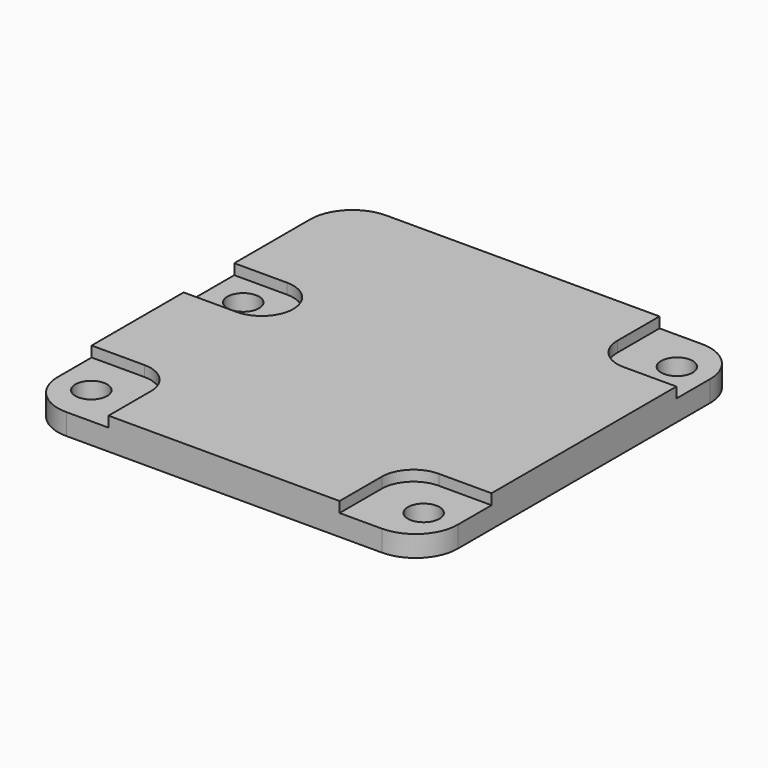
from build123d import *

# Parameters (mm, degrees)
F1_DEPTH = 3
F3_DEPTH = 1
F4_R     = 1.5
F5_DEPTH = 25


with BuildPart() as f1:
    # F0 (on Top) → F1 (new body)
    with BuildSketch(Plane.XY):
        with BuildLine():
            Line((14.9, 19), (-15, 19))
            ThreePointArc((-15, 19), (-17.828427, 17.828427), (-19, 15))
            Line((-19, 15), (-19, -14.9))
            ThreePointArc((-19, -14.9), (-17.828427, -17.728427), (-15, -18.9))
            Line((-15, -18.9), (14.9, -18.9))
            ThreePointArc((14.9, -18.9), (17.728427, -17.728427), (18.9, -14.9))
            Line((18.9, -14.9), (18.9, 15))
            ThreePointArc((18.9, 15), (17.728427, 17.828427), (14.9, 19))
        make_face()
    extrude(amount=F1_DEPTH)

    # F2 (on face) → F3 (cut)
    with BuildSketch(Plane.XY.offset(3)):
        with BuildLine():
            Line((-14, 6), (-19, 6))
            Line((-19, 6), (-19, 0))
            Line((-19, 0), (-14, 0))
            ThreePointArc((-14, 0), (-11.87868, 0.87868), (-11, 3))
            ThreePointArc((-11, 3), (-11.87868, 5.12132), (-14, 6))
        make_face()
        with BuildLine():
            Line((18.9, 19), (10.9, 19))
            Line((10.9, 19), (10.9, 14))
            ThreePointArc((10.9, 14), (11.77868, 11.87868), (13.9, 11))
            Line((13.9, 11), (18.9, 11))
            Line((18.9, 11), (18.9, 19))
        make_face()
        with BuildLine():
            Line((-14, -10.9), (-19, -10.9))
            Line((-19, -10.9), (-19, -18.9))
            Line((-19, -18.9), (-11, -18.9))
            Line((-11, -18.9), (-11, -13.9))
            ThreePointArc((-11, -13.9), (-11.87868, -11.77868), (-14, -10.9))
        make_face()
        with BuildLine():
            Line((18.9, -18.9), (18.9, -10.9))
            Line((18.9, -10.9), (13.9, -10.9))
            ThreePointArc((13.9, -10.9), (11.77868, -11.77868), (10.9, -13.9))
            Line((10.9, -13.9), (10.9, -18.9))
            Line((10.9, -18.9), (18.9, -18.9))
        make_face()
    extrude(amount=-F3_DEPTH, mode=Mode.SUBTRACT)

    # F4 (on face) → F5 (cut)
    with BuildSketch(Plane.XY.offset(2)):
        with Locations((-15.75, 3)):
            Circle(F4_R)
        with Locations((15.75, 15)):
            Circle(F4_R)
        with Locations((15.75, -15)):
            Circle(F4_R)
        with Locations((-15.75, -15)):
            Circle(F4_R)
    extrude(amount=-F5_DEPTH, mode=Mode.SUBTRACT)


solid = f1.part
